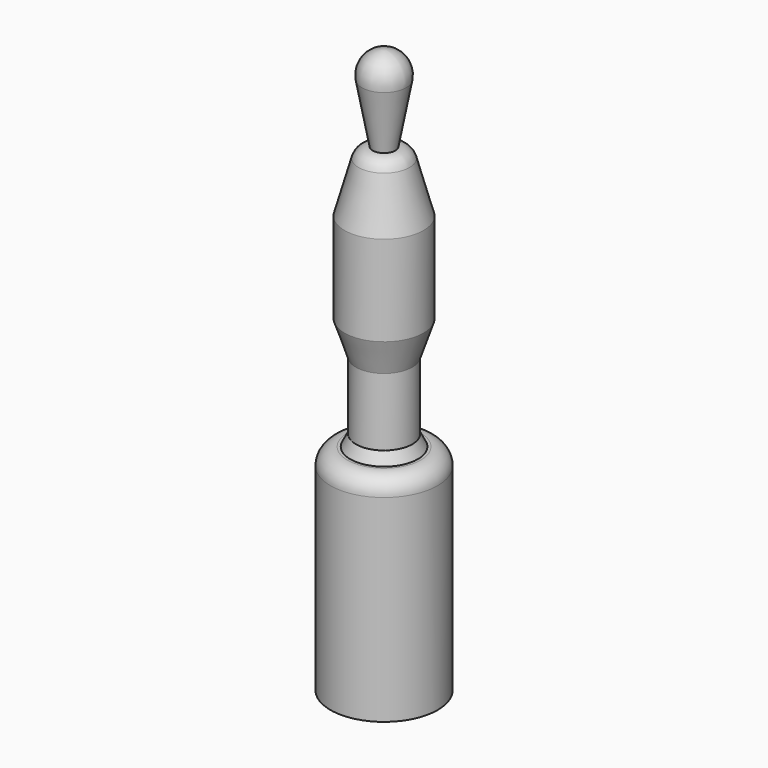
from build123d import *


with BuildPart() as f1:
    # F0 (on Front) → F1 (revolve)
    with BuildSketch(Plane.XZ):
        with BuildLine():
            Line((2, -15.170774), (3.933172, -4.728119))
            ThreePointArc((3.933172, -4.728119), (3.0751, -1.441922), (0, 0))
            Line((0, 0), (0, -100))
            Line((0, -100), (9.5, -100))
            Line((9.5, -100), (9.5, -65))
            ThreePointArc((9.5, -65), (8.62132, -62.87868), (6.5, -62))
            Line((6.5, -62), (6, -62))
            Line((6, -62), (5, -60))
            Line((5, -60), (5, -48))
            Line((5, -48), (7, -42))
            Line((7, -42), (7, -26))
            Line((7, -26), (4.5, -17))
            ThreePointArc((4.5, -17), (3.567458, -15.651518), (2, -15.170774))
        make_face()
    revolve(axis=Axis((0, 0, -50), (0, 0, 1)))


solid = f1.part
